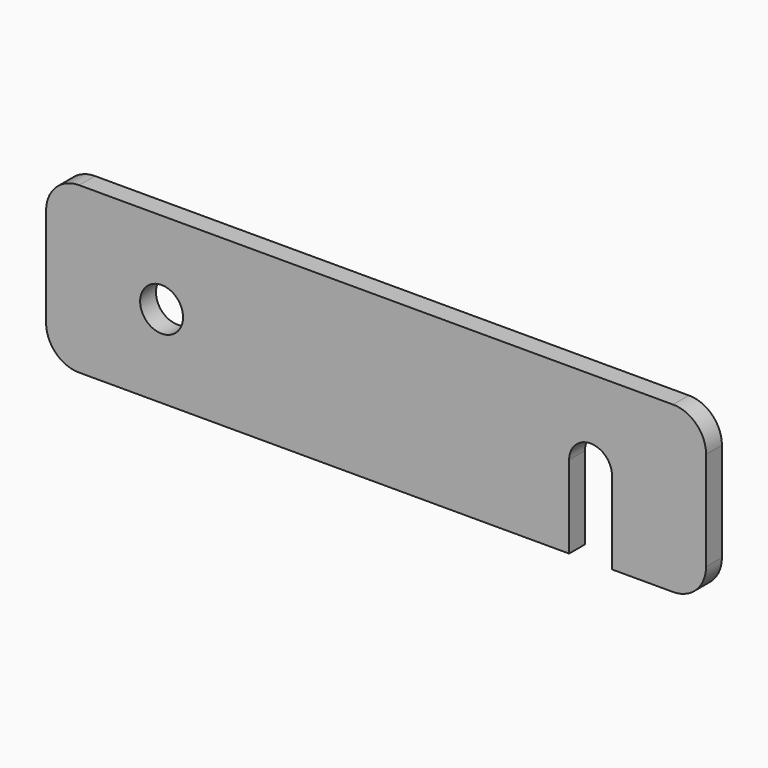
from build123d import *

# Parameters (mm, degrees)
F0_W     = 100
F0_H     = 25
F1_DEPTH = 3
F2_R     = 5
F3_R     = 3.25
F4_DEPTH = 25


with BuildPart() as f1:
    # F0 (on Front) → F1 (new body)
    with BuildSketch(Plane.XZ):
        Rectangle(F0_W, F0_H)
    extrude(amount=F1_DEPTH)

    # F2
    f2_edges = [f1.edges().sort_by_distance(p)[0] for p in [
        (50, -1.5, 12.5),
        (50, -1.5, -12.5),
        (-50, -1.5, -12.5),
        (-50, -1.5, 12.5),
    ]]
    fillet(f2_edges, radius=F2_R)

    # F3 (on Front) → F4 (cut)
    with BuildSketch(Plane.XZ):
        with BuildLine():
            Line((35.75, -17.689867), (35.75, 0))
            ThreePointArc((35.75, 0), (32.5, 3.25), (29.25, 0))
            Line((29.25, 0), (29.25, -17.689867))
            Line((29.25, -17.689867), (35.75, -17.689867))
        make_face()
        with Locations((-32.5, 0)):
            Circle(F3_R)
    extrude(amount=F4_DEPTH, mode=Mode.SUBTRACT)


solid = f1.part
